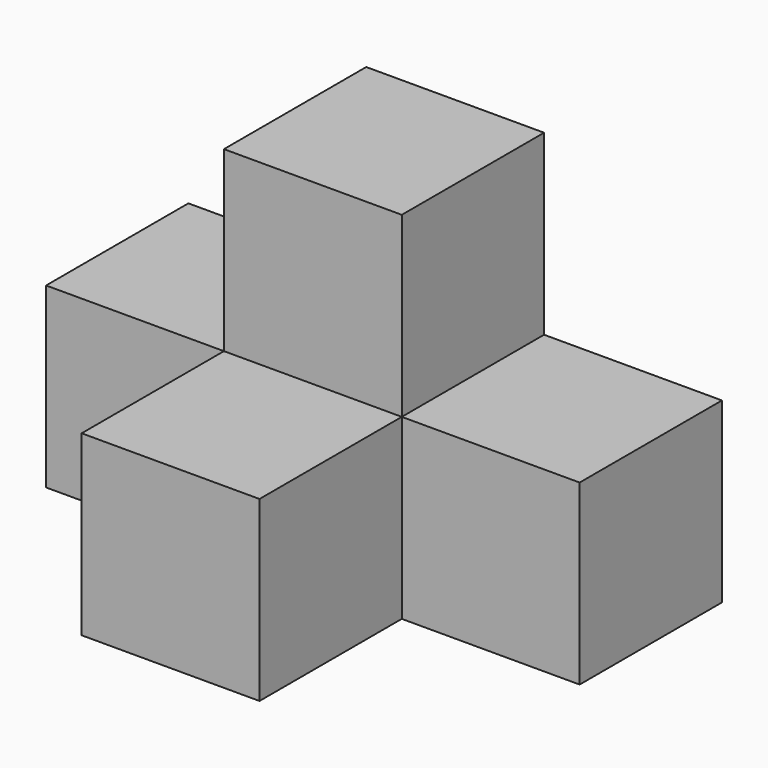
from build123d import *

# Parameters (mm, degrees)
F0_W     = 25.4
F0_H     = 25.4
F1_DEPTH = 50.8
F2_DEPTH = 25.4


with BuildPart() as f1:
    # F0 (on Front) → F1 (new body)
    with BuildSketch(Plane.XZ):
        with Locations((-2.776934, -7.56451)):
            Rectangle(F0_W, F0_H)
    extrude(amount=F1_DEPTH)

    # F0 (on Front) → F2 (join)
    with BuildSketch(Plane.XZ):
        with Locations((-28.176934, -7.56451)):
            Rectangle(F0_W, F0_H)
        with Locations((-2.776934, 17.83549)):
            Rectangle(F0_W, F0_H)
        with Locations((22.623066, -7.56451)):
            Rectangle(F0_W, F0_H)
    extrude(amount=F2_DEPTH)


solid = f1.part
